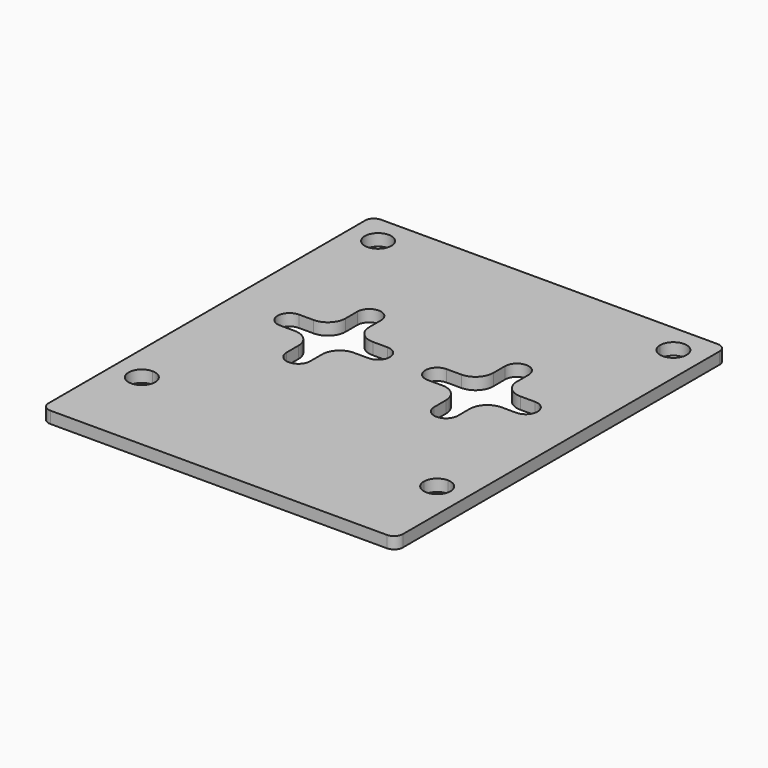
from build123d import *

# Parameters (mm, degrees)
F0_W     = 60
F0_H     = 70
F1_DEPTH = 2
F2_R     = 1.5
F3_W     = 2
F3_H     = 2
F4_DEPTH = 2
F5_R     = 3


with BuildPart() as f1:
    # F0 (on Top) → F1 (new body)
    with BuildSketch(Plane.XY):
        Rectangle(F0_W, F0_H)
        with BuildLine():
            ThreePointArc((-25, 27.75), (-26.5909902577, 31.5909902577), (-22.75, 30))
            Line((-22.75, 30), (22.75, 30))
            ThreePointArc((22.75, 30), (25, 32.25), (27.25, 30))
            ThreePointArc((27.25, 30), (26.5909902577, 28.4090097423), (25, 27.75))
            Line((25, 27.75), (25, -17.75))
            ThreePointArc((25, -17.75), (26.5909902577, -18.4090097423), (27.25, -20))
            ThreePointArc((27.25, -20), (25, -22.25), (22.75, -20))
            Line((22.75, -20), (-22.75, -20))
            ThreePointArc((-22.75, -20), (-26.5909902577, -21.5909902577), (-25, -17.75))
            Line((-25, -17.75), (-25, 27.75))
        make_face(mode=Mode.SUBTRACT)
        with BuildLine():
            Line((22.75, 30), (-22.75, 30))
            ThreePointArc((-22.75, 30), (-23.4090097423, 28.4090097423), (-25, 27.75))
            Line((-25, 27.75), (-25, -17.75))
            ThreePointArc((-25, -17.75), (-23.4090097423, -18.4090097423), (-22.75, -20))
            Line((-22.75, -20), (22.75, -20))
            ThreePointArc((22.75, -20), (23.4090097423, -18.4090097423), (25, -17.75))
            Line((25, -17.75), (25, 27.75))
            ThreePointArc((25, 27.75), (23.4090097423, 28.4090097423), (22.75, 30))
        make_face()
    extrude(amount=F1_DEPTH)

    # F2
    f2_edges = [f1.edges().sort_by_distance(p)[0] for p in [
        (-30, 35, 1),
        (30, 35, 1),
        (-30, -35, 1),
        (30, -35, 1),
    ]]
    fillet(f2_edges, radius=F2_R)

    # F3 (on face) → F4 (cut)
    with BuildSketch(Plane.XY.offset(2)):
        with Locations((-11.5, 6)):
            Rectangle(F3_W, F3_H)
        with Locations((-13.5, 6)):
            Rectangle(F3_W, F3_H)
        with BuildLine():
            Line((-14.5, 7), (-12.5, 7))
            Line((-12.5, 7), (-10.5, 7))
            Line((-10.5, 7), (-10.5, 12.5))
            ThreePointArc((-10.5, 12.5), (-12.5, 14.5), (-14.5, 12.5))
            Line((-14.5, 12.5), (-14.5, 7))
        make_face()
        with Locations((-11.5, 4)):
            Rectangle(F3_W, F3_H)
        with Locations((-13.5, 4)):
            Rectangle(F3_W, F3_H)
        with BuildLine():
            Line((-14.5, 5), (-14.5, 7))
            Line((-14.5, 7), (-20, 7))
            ThreePointArc((-20, 7), (-22, 5), (-20, 3))
            Line((-20, 3), (-14.5, 3))
            Line((-14.5, 3), (-14.5, 5))
        make_face()
        with BuildLine():
            Line((-5, 7), (-10.5, 7))
            Line((-10.5, 7), (-10.5, 5))
            Line((-10.5, 5), (-10.5, 3))
            Line((-10.5, 3), (-5, 3))
            ThreePointArc((-5, 3), (-3, 5), (-5, 7))
        make_face()
        with BuildLine():
            Line((-10.5, 3), (-12.5, 3))
            Line((-12.5, 3), (-14.5, 3))
            Line((-14.5, 3), (-14.5, -2.5))
            ThreePointArc((-14.5, -2.5), (-12.5, -4.5), (-10.5, -2.5))
            Line((-10.5, -2.5), (-10.5, 3))
        make_face()
        with BuildLine():
            ThreePointArc((5, 7), (3, 5), (5, 3))
            Line((5, 3), (10.5, 3))
            Line((10.5, 3), (10.5, 5))
            Line((10.5, 5), (10.5, 7))
            Line((10.5, 7), (5, 7))
        make_face()
        with Locations((11.5, 4)):
            Rectangle(F3_W, F3_H)
        with BuildLine():
            Line((12.5, 3), (10.5, 3))
            Line((10.5, 3), (10.5, -2.5))
            ThreePointArc((10.5, -2.5), (12.5, -4.5), (14.5, -2.5))
            Line((14.5, -2.5), (14.5, 3))
            Line((14.5, 3), (12.5, 3))
        make_face()
        with Locations((13.5, 4)):
            Rectangle(F3_W, F3_H)
        with Locations((11.5, 6)):
            Rectangle(F3_W, F3_H)
        with BuildLine():
            Line((10.5, 12.5), (10.5, 7))
            Line((10.5, 7), (12.5, 7))
            Line((12.5, 7), (14.5, 7))
            Line((14.5, 7), (14.5, 12.5))
            ThreePointArc((14.5, 12.5), (12.5, 14.5), (10.5, 12.5))
        make_face()
        with BuildLine():
            Line((14.5, 5), (14.5, 3))
            Line((14.5, 3), (20, 3))
            ThreePointArc((20, 3), (22, 5), (20, 7))
            Line((20, 7), (14.5, 7))
            Line((14.5, 7), (14.5, 5))
        make_face()
        with Locations((13.5, 6)):
            Rectangle(F3_W, F3_H)
    extrude(amount=-F4_DEPTH, mode=Mode.SUBTRACT)

    # F5
    f5_edges = [f1.edges().sort_by_distance(p)[0] for p in [
        (-14.5, 3, 1),
        (-10.5, 3, 1),
        (-14.5, 7, 1),
        (-10.5, 7, 1),
        (10.5, 3, 1),
        (10.5, 7, 1),
        (14.5, 3, 1),
        (14.5, 7, 1),
    ]]
    fillet(f5_edges, radius=F5_R)


solid = f1.part
